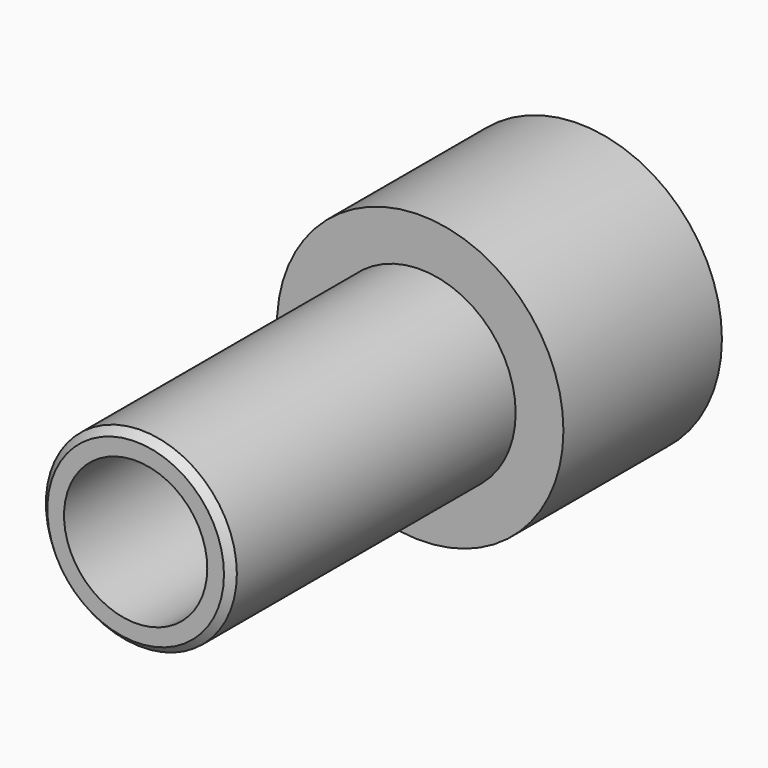
from build123d import *

# Parameters (mm, degrees)
F0_R     = 6
F0_R_2   = 4
F1_DEPTH = 8.3
F0_R_3   = 3
F2_DEPTH = 23.2
F3_SIZE  = 0.3


with BuildPart() as f1:
    # F0 (on Front) → F1 (new body)
    with BuildSketch(Plane.XZ):
        Circle(F0_R)
        Circle(F0_R_2, mode=Mode.SUBTRACT)
    extrude(amount=F1_DEPTH)

    # F0 (on Front) → F2 (join)
    with BuildSketch(Plane.XZ):
        Circle(F0_R_2)
        Circle(F0_R_3, mode=Mode.SUBTRACT)
    extrude(amount=F2_DEPTH)

    # F3
    f3_edges = [f1.edges().sort_by_distance(p)[0] for p in [
        (-4, -23.2, 0),
    ]]
    chamfer(f3_edges, length=F3_SIZE)


solid = f1.part
